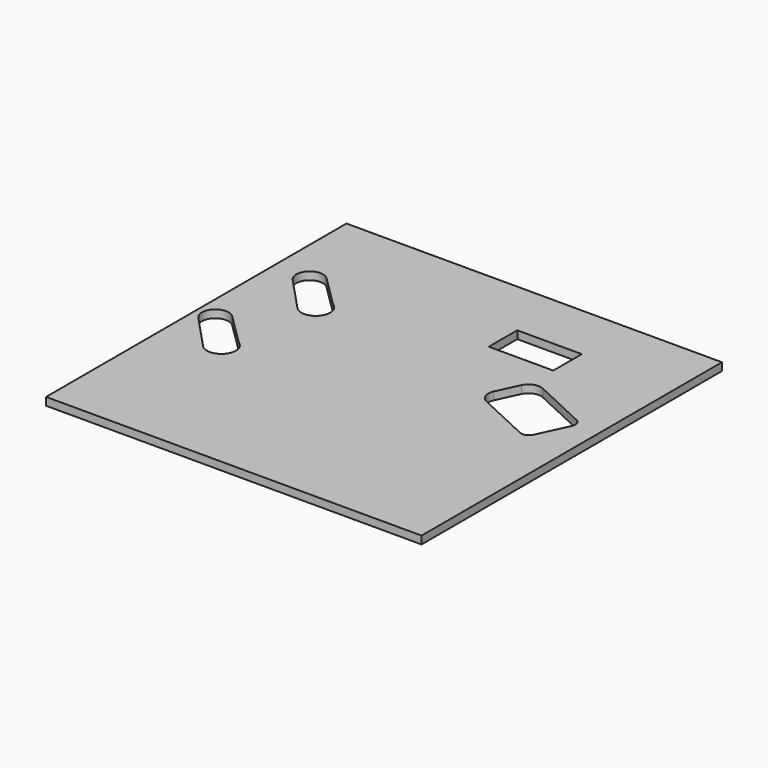
from build123d import *

# Parameters (mm, degrees)
F0_W     = 304.8
F0_H     = 304.8
F0_W_2   = 52.377688
F0_H_2   = 28.869584
F1_DEPTH = 6.35


with BuildPart() as f1:
    # F0 (on Top) → F1 (new body)
    with BuildSketch(Plane.XY):
        Rectangle(F0_W, F0_H)
        with BuildLine():
            ThreePointArc((-144.836656, -7.388522), (-144.616968, 7.616165), (-129.613956, 7.930116))
            ThreePointArc((-129.613956, 7.930116), (-129.354135, 7.681513), (-129.102729, 7.424402))
            Line((-129.102729, 7.424402), (-103.563411, -17.839474))
            ThreePointArc((-103.563411, -17.839474), (-99.545545, -22.085405), (-98.084584, -27.745508))
            ThreePointArc((-98.084584, -27.745508), (-105.060281, -38.44587), (-117.665631, -36.381107))
            ThreePointArc((-117.665631, -36.381107), (-118.312491, -35.742538), (-118.907803, -35.055659))
            Line((-118.907803, -35.055659), (-144.836656, -7.388522))
        make_face(mode=Mode.SUBTRACT)
        with BuildLine():
            ThreePointArc((-130.734437, 70.718664), (-130.514749, 85.723352), (-115.511738, 86.037302))
            ThreePointArc((-115.511738, 86.037302), (-115.251916, 85.788699), (-115.000511, 85.531589))
            Line((-115.000511, 85.531589), (-89.461192, 60.267712))
            ThreePointArc((-89.461192, 60.267712), (-85.443327, 56.021781), (-83.982365, 50.361678))
            ThreePointArc((-83.982365, 50.361678), (-90.958063, 39.661316), (-103.563413, 41.726079))
            ThreePointArc((-103.563413, 41.726079), (-104.210273, 42.364648), (-104.805585, 43.051527))
            Line((-104.805585, 43.051527), (-130.734437, 70.718664))
        make_face(mode=Mode.SUBTRACT)
        with BuildLine():
            ThreePointArc((72.792976, 48.382738), (78.526138, 53.636213), (86.294864, 53.297024))
            Line((86.294864, 53.297024), (129.692652, 33.060303))
            ThreePointArc((129.692652, 33.060303), (132.976074, 29.477076), (132.764081, 24.621622))
            Line((132.764081, 24.621622), (121.28379, 0.002061))
            ThreePointArc((121.28379, 0.002061), (117.700564, -3.281361), (112.84511, -3.069367))
            Line((112.84511, -3.069367), (69.447322, 17.167353))
            ThreePointArc((69.447322, 17.167353), (64.193847, 22.900516), (64.533037, 30.669242))
            Line((64.533037, 30.669242), (72.792976, 48.382738))
        make_face(mode=Mode.SUBTRACT)
        with Locations((49.903146, 91.145411)):
            Rectangle(F0_W_2, F0_H_2, mode=Mode.SUBTRACT)
    extrude(amount=F1_DEPTH)


solid = f1.part
